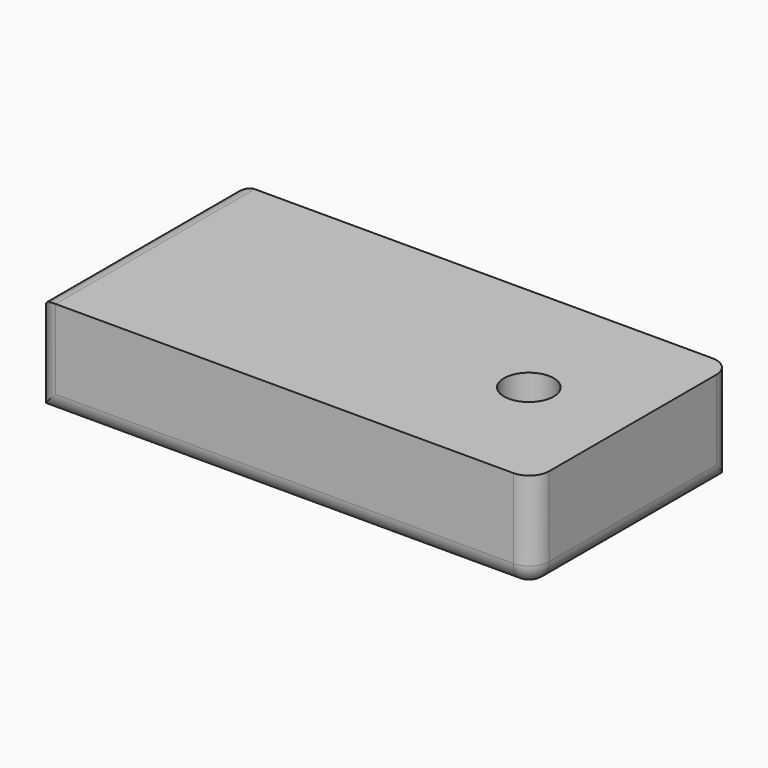
from build123d import *

# Parameters (mm, degrees)
F0_W           = 127
F0_H           = 63.5
F1_DEPTH       = 25.4
F3_D           = 12.7
F3_CBORE_D     = 12.7
F3_CBORE_DEPTH = 6.35
F4_R           = 5.08


with BuildPart() as f1:
    # F0 (on Top) → F1 (new body)
    with BuildSketch(Plane.XY):
        with Locations((63.5, 31.75)):
            Rectangle(F0_W, F0_H)
    extrude(amount=F1_DEPTH)

    # F3 (through all)
    with Locations(Plane(origin=(0, 0, 0), x_dir=(1, 0, 0), z_dir=(0, 0, -1))):
        with Locations((101.218447, -30.816942)):
            CounterBoreHole(F3_D / 2, F3_CBORE_D / 2, F3_CBORE_DEPTH)

    # F4
    f4_edges = [f1.edges().sort_by_distance(p)[0] for p in [
        (127, 31.75, 0),
        (127, 63.5, 12.7),
        (127, 0, 12.7),
        (63.5, 0, 0),
        (0, 0, 12.7),
        (0, 31.75, 25.4),
        (0, 63.5, 12.7),
    ]]
    fillet(f4_edges, radius=F4_R)


solid = f1.part
